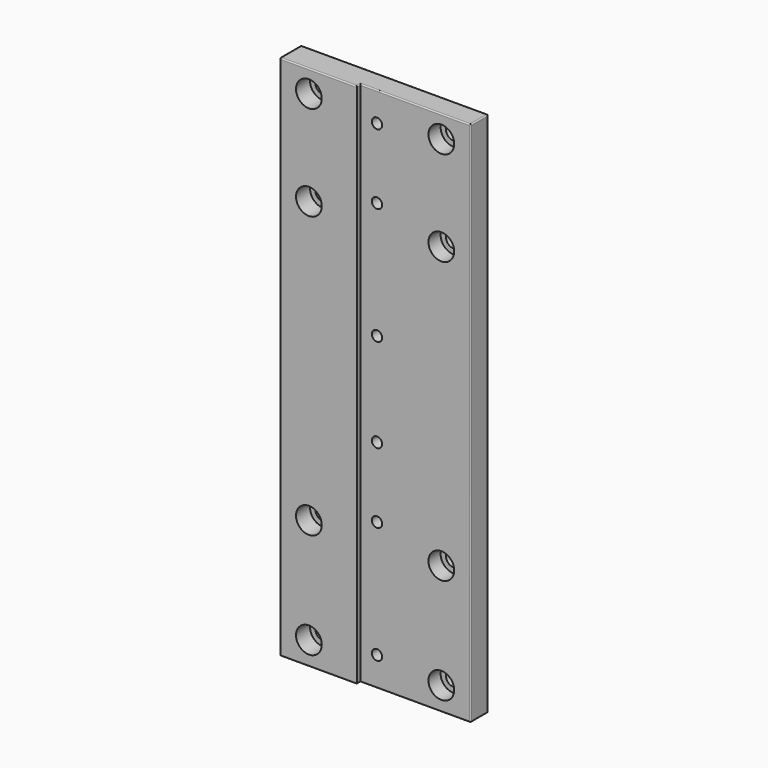
from build123d import *

# Parameters (mm, degrees)
F0_W           = 66
F0_H           = 450
F1_DEPTH       = 23
F0_W_2         = 94
F2_DEPTH       = 19
F3_D           = 10
F3_DEPTH       = 12
F3_TIP         = 3.0043030951
F4_D           = 8.8
F4_DEPTH       = 33
F4_TIP         = 2.6437867237
F6_D           = 13
F6_DEPTH       = 30
F6_CBORE_D     = 22
F6_CBORE_DEPTH = 15
F6_TIP         = 3.9055940237
F8_D           = 13
F8_DEPTH       = 30
F8_CBORE_D     = 22
F8_CBORE_DEPTH = 13
F8_TIP         = 3.9055940237
F9_R           = 1


with BuildPart() as f1:
    # F0 (on Front) → F1 (new body)
    with BuildSketch(Plane.XZ):
        with Locations((-47, 0)):
            Rectangle(F0_W, F0_H)
    extrude(amount=F1_DEPTH)

    # F0 (on Front) → F2 (join)
    with BuildSketch(Plane.XZ):
        with Locations((33, 0)):
            Rectangle(F0_W_2, F0_H)
    extrude(amount=F2_DEPTH)

    # F3
    with Locations(Plane(origin=(0, 0, 0), x_dir=(1, 0, 0), z_dir=(0, 1, 0))):
        with Locations((0, 120), (0, -120)):
            Hole(F3_D / 2, depth=F3_DEPTH)
            with Locations((0, 0, -(F3_DEPTH + F3_TIP / 2))):  # 118° drill point
                Cone(0, F3_D / 2, F3_TIP, mode=Mode.SUBTRACT)

    # F4
    with Locations(Plane(origin=(0, 0, 0), x_dir=(1, 0, 0), z_dir=(0, 1, 0))):
        with Locations((0, 200), (0, 100), (0, 40), (0, -40), (0, -140), (0, -200)):
            Hole(F4_D / 2, depth=F4_DEPTH)
            with Locations((0, 0, -(F4_DEPTH + F4_TIP / 2))):  # 118° drill point
                Cone(0, F4_D / 2, F4_TIP, mode=Mode.SUBTRACT)

    # F6
    with Locations(Plane.XZ.offset(23)):
        with Locations((-55, 206), (-55, 125), (-55, -115), (-55, -205)):
            CounterBoreHole(F6_D / 2, F6_CBORE_D / 2, F6_CBORE_DEPTH, depth=F6_DEPTH)
            with Locations((0, 0, -(F6_DEPTH + F6_TIP / 2))):  # 118° drill point
                Cone(0, F6_D / 2, F6_TIP, mode=Mode.SUBTRACT)

    # F8
    with Locations(Plane.XZ.offset(19)):
        with Locations((55, 206), (55, 125), (55, -115), (55, -205)):
            CounterBoreHole(F8_D / 2, F8_CBORE_D / 2, F8_CBORE_DEPTH, depth=F8_DEPTH)
            with Locations((0, 0, -(F8_DEPTH + F8_TIP / 2))):  # 118° drill point
                Cone(0, F8_D / 2, F8_TIP, mode=Mode.SUBTRACT)

    # F9
    f9_edges = [f1.edges().sort_by_distance(p)[0] for p in [
        (-80, -11.5, 225),
        (-80, -11.5, -225),
        (-80, 0, 0),
        (-80, -23, 0),
        (-14, -21, 225),
        (-47, -23, 225),
        (0, 0, 225),
        (80, -9.5, 225),
        (33, -19, 225),
        (80, -9.5, -225),
        (80, 0, 0),
        (80, -19, 0),
        (-47, -23, -225),
        (-14, -21, -225),
        (33, -19, -225),
        (0, 0, -225),
    ]]
    fillet(f9_edges, radius=F9_R)


solid = f1.part
